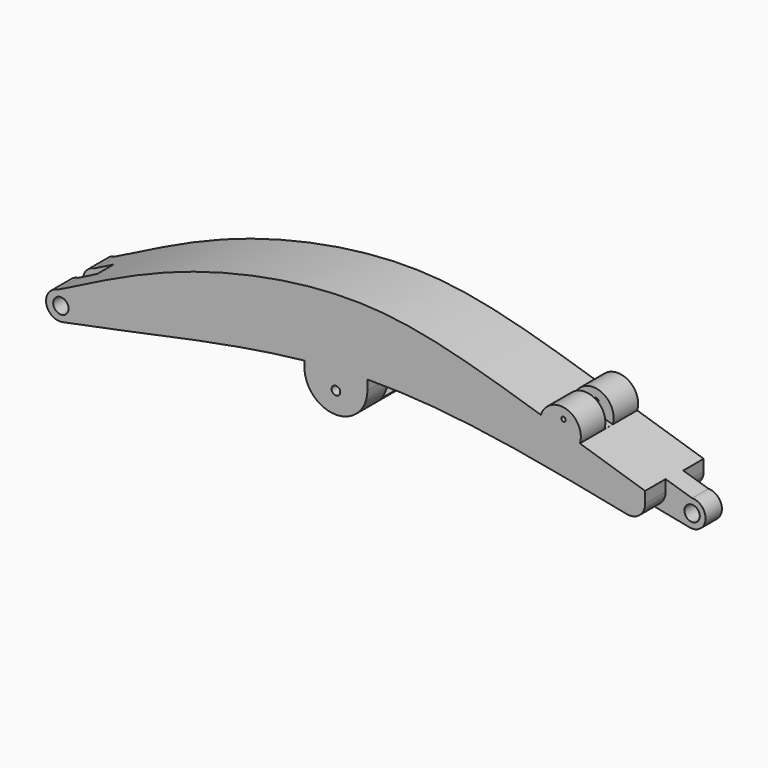
from build123d import *

# Parameters (mm, degrees)
F1_DEPTH      = 70
F2_R          = 7.5
F3_DEPTH      = 70
F4_W          = 38.3359060888
F4_H          = 25
F4_W_2        = 39.5979748373
F4_W_3        = 30.4998038337
F4_H_2        = 20
F5_DEPTH      = 25
F5_DEPTH_BACK = 25
F6_R          = 15
F7_W          = 61.4808317696
F7_H          = 11.3357962312
F7_R          = 4.225
F8_DEPTH      = 70
F9_W          = 100
F9_H          = 20
F10_DEPTH     = 24
F11_R         = 2.125
F12_DEPTH     = 70
F14_R         = 2.125
F15_DEPTH     = 10


with BuildPart() as f1:
    # F0 (on Front) → F1 (new body)
    with BuildSketch(Plane.XZ):
        with BuildLine():
            add(Edge.make_bspline(
                [(0, 7.5), (50.3453426063, 33.0532751977), (124.5695498707, 70.4313359242), (325.5609958993, 110.9176804755), (447.3313093185, 59.5129579306), (600, 13.1103944731)],
                knots=[0, 0, 0, 0, 0.281013924, 0.5871772284, 1, 1, 1, 1], degree=3))
            ThreePointArc((0, 7.5), (-11.0976940951, -8.2685881847), (5.0424365564, -18.8186294225))
            add(Edge.make_bspline(
                [(5.0424365564, -18.8186294225), (104.1736466206, 0.0529713977), (299.4595954862, 54.136097737), (497.3786234374, 6.3046680419), (596.6067802216, -12.6636686144)],
                knots=[0, 0, 0, 0, 0.4997002441, 1, 1, 1, 1], degree=3))
            ThreePointArc((596.6067802216, -12.6636686144), (612.9982332309, -1.7112498691), (600, 13.1103944731))
        make_face()
    extrude(amount=F1_DEPTH)

    # F2 (on Front) → F3 (cut)
    with BuildSketch(Plane.XZ):
        with Locations((3.1568240374, -5.3793457337)):
            Circle(F2_R)
        with Locations((599.981546402, 0)):
            Circle(F2_R)
    extrude(amount=F3_DEPTH, mode=Mode.SUBTRACT)

    # F4 (on Top) → F5 (cut, two sides)
    with BuildSketch(Plane.XY) as f5_sk:
        with Locations((594.4681697192, -12.5)):
            Rectangle(F4_W, F4_H)
        with Locations((593.837135345, -57.5)):
            Rectangle(F4_W_2, F4_H)
        with Locations((3.3916295506, -35)):
            Rectangle(F4_W_3, F4_H_2)
    extrude(amount=-F5_DEPTH, mode=Mode.SUBTRACT)
    extrude(f5_sk.sketch, amount=F5_DEPTH_BACK, mode=Mode.SUBTRACT)

    # F6
    f6_edges = [f1.edges().sort_by_distance(p)[0] for p in [
        (574.038148, -57.5, -8.276448),
        (575.300217, -12.5, -8.524983),
    ]]
    fillet(f6_edges, radius=F6_R)

    # F7 (on Front) → F8 (join)
    with BuildSketch(Plane.XZ):
        with Locations((271.9227431553, 24.7699965359)):
            Rectangle(F7_W, F7_H)
        with BuildLine():
            Line((302.6631590401, 19.1020984203), (241.1823272705, 19.1020984203))
            ThreePointArc((241.1823272705, 19.1020984203), (271.9227431553, -11.6383174646), (302.6631590401, 19.1020984203))
        make_face()
        with Locations((271.9227431553, 9.1020984203)):
            Circle(F7_R, mode=Mode.SUBTRACT)
    extrude(amount=F8_DEPTH)

    # F9 (on Top) → F10 (cut)
    with BuildSketch(Plane.XY):
        with Locations((278, -35)):
            Rectangle(F9_W, F9_H)
    extrude(amount=F10_DEPTH, mode=Mode.SUBTRACT)

    # F11 (on Front) → F12 (join)
    with BuildSketch(Plane.XZ):
        with BuildLine():
            Line((472.1937120855, 53.3293670855), (510.3209194065, 41.2333121589))
            ThreePointArc((510.3209194065, 41.2333121589), (497.2994567763, 66.3263890307), (472.1937120855, 53.3293670855))
        make_face()
        with Locations((494.275441611, 56.7945826814)):
            Circle(F11_R, mode=Mode.SUBTRACT)
        Polygon((509.0549868975, 37.4887385523), (510.3209194065, 41.2333121589), (472.1937120855, 53.3293670855), (471.0067243804, 49.6005392228), align=None)
    extrude(amount=F12_DEPTH)

    # F14 (on offset) → F15 (cut)
    with BuildSketch(Plane(origin=(0, -30, 0), x_dir=(-1, 0, 0), z_dir=(0, 1, 0))):
        with BuildLine():
            ThreePointArc((-472.1937120855, 53.3293670855), (-497.2994567763, 66.3263890307), (-510.3209194065, 41.2333121589))
            Line((-510.3209194065, 41.2333121589), (-472.1937120855, 53.3293670855))
        make_face()
        with Locations((-494.275441611, 56.7945826814)):
            Circle(F14_R, mode=Mode.SUBTRACT)
    extrude(amount=-F15_DEPTH, mode=Mode.SUBTRACT)


solid = f1.part
